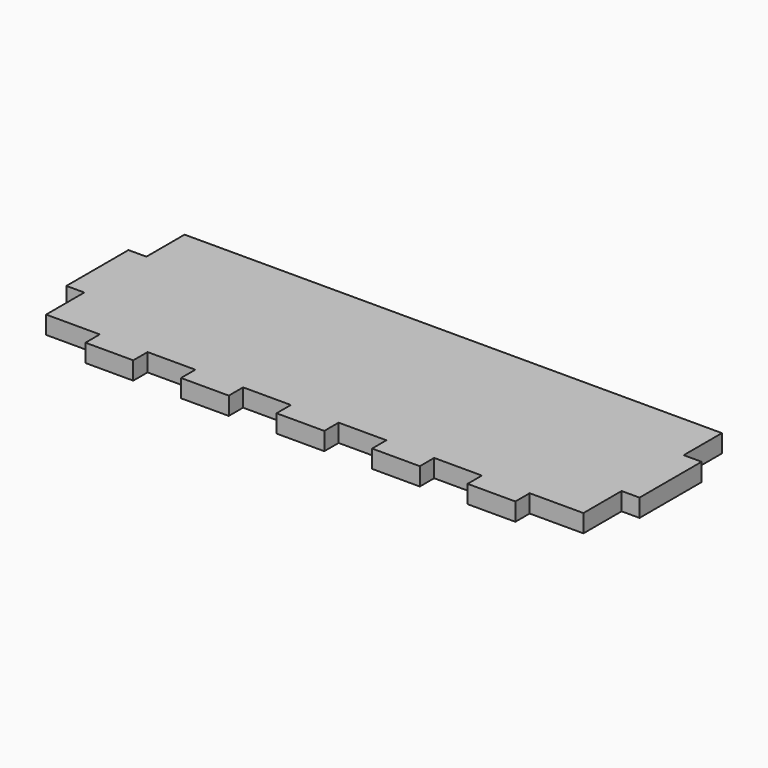
from build123d import *

# Parameters (mm, degrees)
F0_W     = 152.4
F0_H     = 50.8
F1_DEPTH = 4.7625
F2_W     = 19.05
F2_H     = 4.7625
F2_W_2   = 12.7
F3_DEPTH = 25.4
F4_W     = 4.7625
F4_H     = 12.7
F5_DEPTH = 25.4


with BuildPart() as f1:
    # F0 (on Top) → F1 (new body)
    with BuildSketch(Plane.XY):
        Rectangle(F0_W, F0_H)
    extrude(amount=F1_DEPTH)

    # F2 (on face) → F3 (cut)
    with BuildSketch(Plane.XY.offset(4.7625)):
        with Locations((-66.675, -23.01875)):
            Rectangle(F2_W, F2_H)
        with Locations((-38.1, -23.01875)):
            Rectangle(F2_W_2, F2_H)
        with Locations((-12.7, -23.01875)):
            Rectangle(F2_W_2, F2_H)
        with Locations((12.7, -23.01875)):
            Rectangle(F2_W_2, F2_H)
        with Locations((66.675, -23.01875)):
            Rectangle(F2_W, F2_H)
        with Locations((38.1, -23.01875)):
            Rectangle(F2_W_2, F2_H)
    extrude(amount=-F3_DEPTH, mode=Mode.SUBTRACT)

    # F4 (on face) → F5 (cut)
    with BuildSketch(Plane.XY.offset(4.7625)):
        with Locations((-73.81875, 19.05)):
            Rectangle(F4_W, F4_H)
        with Locations((-73.81875, -14.2875)):
            Rectangle(F4_W, F4_H)
        with Locations((73.81875, 19.05)):
            Rectangle(F4_W, F4_H)
        with Locations((73.81875, -14.2875)):
            Rectangle(F4_W, F4_H)
    extrude(amount=-F5_DEPTH, mode=Mode.SUBTRACT)


solid = f1.part
